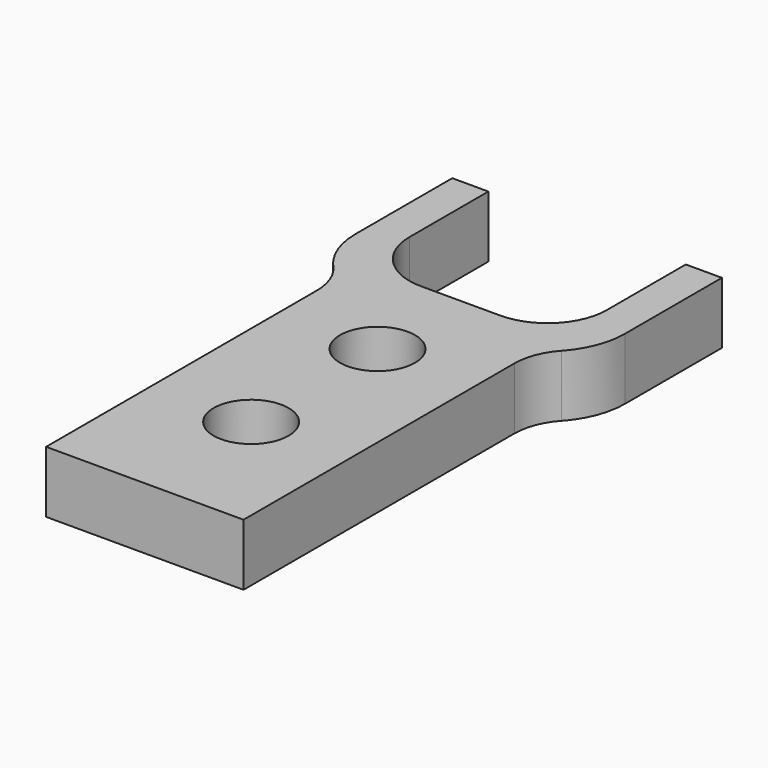
from build123d import *

# Parameters (mm, degrees)
F0_R     = 2.413
F1_DEPTH = 3.96875
F2_R     = 3.81
F3_R     = 5.08


with BuildPart() as f1:
    # F0 (on Top) → F1 (new body)
    with BuildSketch(Plane.XY):
        Polygon((-63.177648, 33.202958), (-75.877648, 33.202958), (-75.877648, 43.362958), (-78.200534, 43.362958), (-78.200534, 33.202958), (-75.877648, 31.518605), (-75.877648, 7.802958), (-63.177648, 7.802958), (-63.177648, 31.518605), (-60.854763, 33.202958), (-60.854763, 43.362958), (-63.177648, 43.362958), align=None)
        with Locations((-69.527648, 16.35256)):
            Circle(F0_R, mode=Mode.SUBTRACT)
        with Locations((-69.527648, 26.51256)):
            Circle(F0_R, mode=Mode.SUBTRACT)
    extrude(amount=F1_DEPTH)

    # F2
    f2_edges = [f1.edges().sort_by_distance(p)[0] for p in [
        (-63.177648, 31.518605, 1.984375),
        (-75.877648, 31.518605, 1.984375),
        (-63.177648, 33.202958, 1.984375),
        (-75.877648, 33.202958, 1.984375),
    ]]
    fillet(f2_edges, radius=F2_R)

    # F3
    f3_edges = [f1.edges().sort_by_distance(p)[0] for p in [
        (-78.200534, 33.202958, 1.984375),
        (-60.854763, 33.202958, 1.984375),
    ]]
    fillet(f3_edges, radius=F3_R)


solid = f1.part
